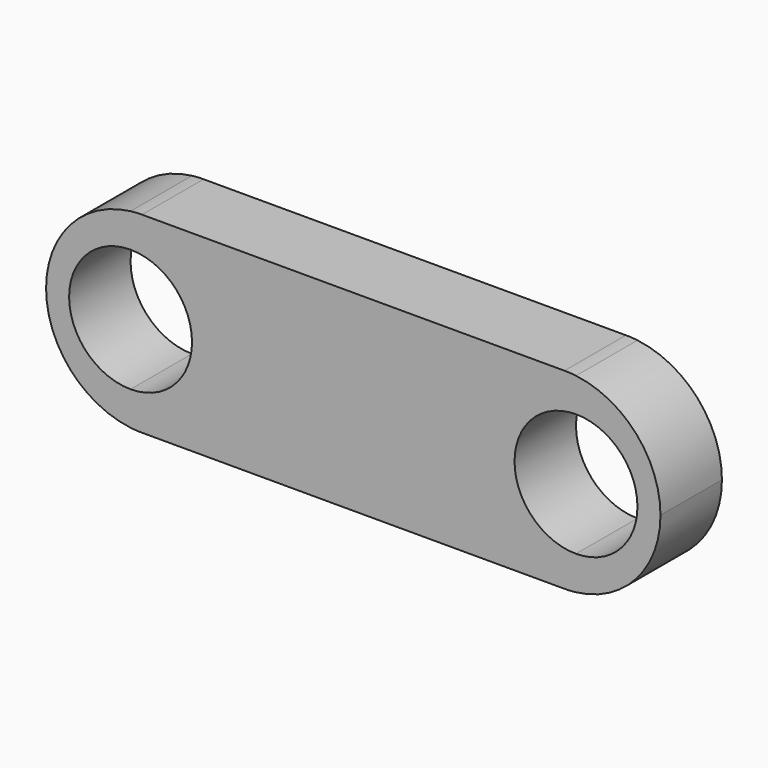
from build123d import *

# Parameters (mm, degrees)
F1_DEPTH = 10


with BuildPart() as f1:
    # F0 (on Front) → F1 (new body)
    with BuildSketch(Plane.XZ):
        with BuildLine():
            Line((-27.5, -12.5), (27.5, -12.5))
            ThreePointArc((27.5, -12.5), (28.251359, -12.477398), (29, -12.409674))
            Line((29, -12.409674), (29, -8))
            ThreePointArc((29, -8), (21, 0), (29, 8))
            Line((29, 8), (29, 12.409674))
            ThreePointArc((29, 12.409674), (28.251359, 12.477398), (27.5, 12.5))
            Line((27.5, 12.5), (-27.5, 12.5))
            ThreePointArc((-27.5, 12.5), (-28.251359, 12.477398), (-29, 12.409674))
            Line((-29, 12.409674), (-29, 8))
            ThreePointArc((-29, 8), (-23.343146, 5.656854), (-21, 0))
            ThreePointArc((-21, 0), (-23.343146, -5.656854), (-29, -8))
            Line((-29, -8), (-29, -12.409674))
            ThreePointArc((-29, -12.409674), (-28.251359, -12.477398), (-27.5, -12.5))
        make_face()
        with BuildLine():
            Line((29, -8), (29, -12.409674))
            ThreePointArc((29, -12.409674), (36.854143, -8.291562), (40, 0))
            ThreePointArc((40, 0), (36.854143, 8.291562), (29, 12.409674))
            Line((29, 12.409674), (29, 8))
            ThreePointArc((29, 8), (34.656854, 5.656854), (37, 0))
            ThreePointArc((37, 0), (34.656854, -5.656854), (29, -8))
        make_face()
        with BuildLine():
            ThreePointArc((-40, 0), (-36.854143, -8.291562), (-29, -12.409674))
            Line((-29, -12.409674), (-29, -8))
            ThreePointArc((-29, -8), (-37, 0), (-29, 8))
            Line((-29, 8), (-29, 12.409674))
            ThreePointArc((-29, 12.409674), (-36.854143, 8.291562), (-40, 0))
        make_face()
    extrude(amount=F1_DEPTH)


solid = f1.part
